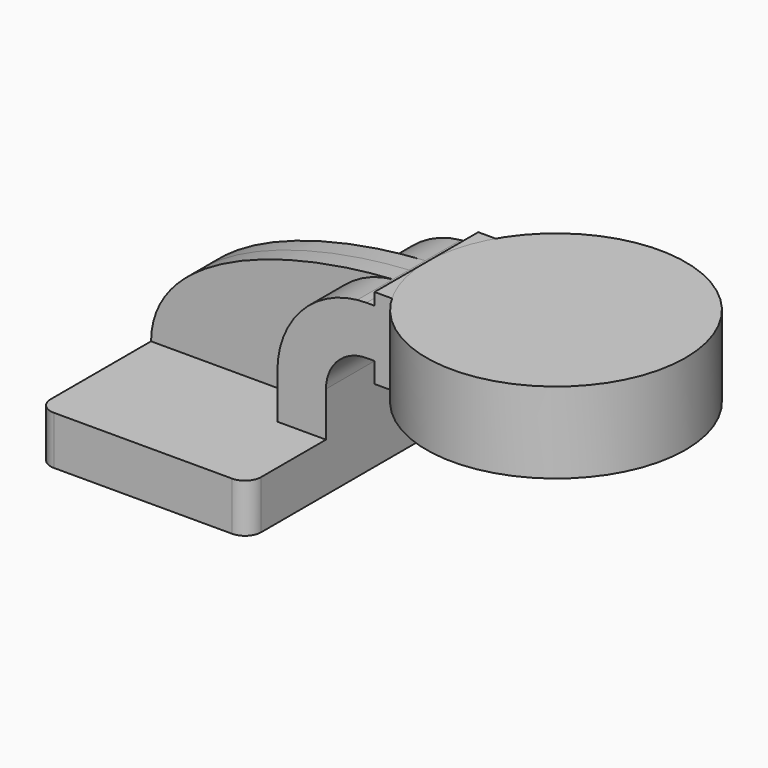
from build123d import *

# Parameters (mm, degrees)
F1_DEPTH = 63.5
F2_DEPTH = 25.4
F3_DEPTH = 7.9375
F5_R     = 6.35


with BuildPart() as f1:
    # F0 (on Front) → F1 (new body, symmetric)
    with BuildSketch(Plane.XZ):
        Polygon((-41.275, 9.525), (-41.275, -9.525), (41.275, -9.525), (41.275, 9.525), (22.225, 9.525), align=None)
    extrude(amount=F1_DEPTH, both=True)

    # F0 (on Front) → F2 (join, symmetric)
    with BuildSketch(Plane.XZ):
        with BuildLine():
            Line((22.225, 9.525), (41.275, 9.525))
            Line((41.275, 9.525), (41.275, 27.0002))
            ThreePointArc((41.275, 27.0002), (45.92468, 38.22552), (57.15, 42.8752))
            Line((57.15, 42.8752), (60.325, 42.8752))
            Line((60.325, 42.8752), (60.325, 61.9252))
            Line((60.325, 61.9252), (57.15, 61.9252))
            add(Edge.make_bspline(
                [(53.547482, 61.738903), (54.753709, 61.811789), (55.954941, 61.87388), (57.15, 61.9252)],
                knots=[108.527599, 108.527599, 108.527599, 108.527599, 111.504536, 111.504536, 111.504536, 111.504536], degree=3))
            ThreePointArc((53.547482, 61.738903), (31.211866, 50.387565), (22.225, 27.0002))
            Line((22.225, 27.0002), (22.225, 9.525))
        make_face()
        Polygon((60.325, 66.675), (60.325, 61.9252), (60.325, 42.8752), (60.325, 34.925), (111.125, 34.925), (111.125, 66.675), align=None)
    extrude(amount=F2_DEPTH, both=True)

    # F0 (on Front) → F3 (join, symmetric)
    with BuildSketch(Plane.XZ):
        with BuildLine():
            add(Edge.make_bspline(
                [(-41.275, 9.525), (-41.040701, 42.076949), (9.573105, 59.081756), (53.547482, 61.738903)],
                knots=[0, 0, 0, 0, 108.527599, 108.527599, 108.527599, 108.527599], degree=3))
            Line((-41.275, 9.525), (22.225, 9.525))
            Line((22.225, 9.525), (22.225, 27.0002))
            ThreePointArc((22.225, 27.0002), (31.211866, 50.387565), (53.547482, 61.738903))
        make_face()
    extrude(amount=F3_DEPTH, both=True)

    # F5
    f5_edges = [f1.edges().sort_by_distance(p)[0] for p in [
        (41.275, -63.5, 0),
        (-41.275, -63.5, 0),
        (41.275, 63.5, 0),
        (-41.275, 63.5, 0),
    ]]
    fillet(f5_edges, radius=F5_R)


with BuildPart() as f4:
    # F0 (on Front) → F4 (revolve)
    with BuildSketch(Plane.XZ):
        Polygon((60.325, 66.675), (60.325, 61.9252), (60.325, 42.8752), (60.325, 34.925), (111.125, 34.925), (111.125, 66.675), align=None)
    revolve(axis=Axis((111.125, 0, 50.8), (0, 0, 1)))


solid = Compound([f1.part, f4.part])
